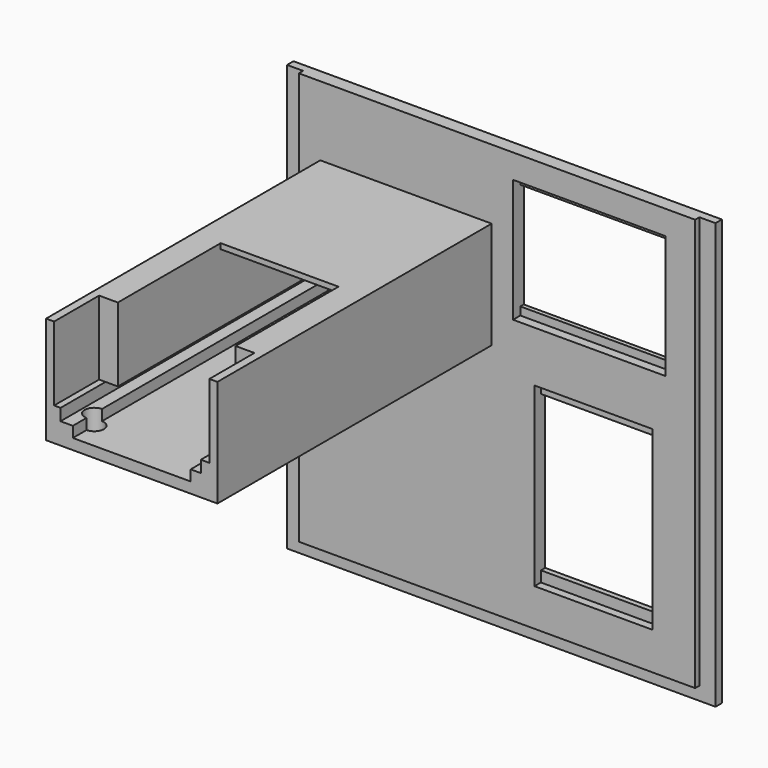
from build123d import *

# Parameters (mm, degrees)
BOX019_W          = 28.5
BOX019_H          = 10
BOX019_DEPTH      = 20
BOX020_W          = 22
BOX020_H          = 10
BOX020_DEPTH      = 33
BOX021_W          = 28.5
BOX021_H          = 10
BOX021_DEPTH      = 23
BOX024_W          = 26.2
BOX024_H          = 60
BOX024_DEPTH      = 2.2
BOX025_W          = 22
BOX025_H          = 60
BOX025_DEPTH      = 17
CYLINDER008_R     = 1.8
CYLINDER008_DEPTH = 30
CYLINDER009_R     = 1.8
CYLINDER009_DEPTH = 30
BOX026_W          = 29
BOX026_H          = 13
BOX026_DEPTH      = 15
BOX027_W          = 22
BOX027_H          = 25
BOX027_DEPTH      = 15
BOX022_W          = 12.6
BOX022_H          = 20
BOX022_DEPTH      = 12
BOX018_W          = 22
BOX018_H          = 10
BOX018_DEPTH      = 29
BOX014_W          = 80
BOX014_H          = 1.5
BOX014_DEPTH      = 79.5
BOX023_W          = 32
BOX023_H          = 64
BOX023_DEPTH      = 20
BOX015_W          = 74
BOX015_H          = 2
BOX015_DEPTH      = 77


with BuildPart() as pc:
    # Box019 → Box019 (new body)
    with BuildSketch(Plane(origin=(43, 0, 54), x_dir=(1, 0, 0), z_dir=(0, 0, 1))):
        with Locations((14.25, 5)):
            Rectangle(BOX019_W, BOX019_H)
    extrude(amount=BOX019_DEPTH)


with BuildPart() as obj1:
    # Box020 → Box020 (new body)
    with BuildSketch(Plane(origin=(47, -7.5, 10), x_dir=(1, 0, 0), z_dir=(0, 0, 1))):
        with Locations((11, 5)):
            Rectangle(BOX020_W, BOX020_H)
    extrude(amount=BOX020_DEPTH)


with BuildPart() as pc001:
    # Box021 → Box021 (new body)
    with BuildSketch(Plane(origin=(43, -7.3, 52.5), x_dir=(1, 0, 0), z_dir=(0, 0, 1))):
        with Locations((14.25, 5)):
            Rectangle(BOX021_W, BOX021_H)
    extrude(amount=BOX021_DEPTH)


with BuildPart() as obj2:
    # Box024 → Box024 (new body)
    with BuildSketch(Plane(origin=(35.9, -3.5, 51), x_dir=(-1, 0, 0), z_dir=(0, 0, 1))):
        with Locations((13.1, 30)):
            Rectangle(BOX024_W, BOX024_H)
    extrude(amount=BOX024_DEPTH)


with BuildPart() as obj3:
    # Box025 → Box025 (new body)
    with BuildSketch(Plane(origin=(34, -3.5, 49), x_dir=(-1, 0, 0), z_dir=(0, 0, 1))):
        with Locations((11, 30)):
            Rectangle(BOX025_W, BOX025_H)
    extrude(amount=BOX025_DEPTH)


with BuildPart() as cylinder008:
    # Cylinder008 → Cylinder008 (new body)
    with BuildSketch(Plane(origin=(34, -58, 38), x_dir=(1, 0, 0), z_dir=(0, 0, 1))):
        Circle(CYLINDER008_R)
    extrude(amount=CYLINDER008_DEPTH)


with BuildPart() as cylinder009:
    # Cylinder009 → Cylinder009 (new body)
    with BuildSketch(Plane(origin=(12, -58, 38), x_dir=(1, 0, 0), z_dir=(0, 0, 1))):
        Circle(CYLINDER009_R)
    extrude(amount=CYLINDER009_DEPTH)


with BuildPart() as obj4:
    # Box026 → Box026 (new body)
    with BuildSketch(Plane(origin=(8.5, -65.5, 53.2), x_dir=(1, 0, 0), z_dir=(0, 0, 1))):
        with Locations((14.5, 6.5)):
            Rectangle(BOX026_W, BOX026_H)
    extrude(amount=BOX026_DEPTH)


with BuildPart() as obj5:
    # Box027 → Box027 (new body)
    with BuildSketch(Plane(origin=(12, -53.5, 65.2), x_dir=(1, 0, 0), z_dir=(0, 0, 1))):
        with Locations((11, 12.5)):
            Rectangle(BOX027_W, BOX027_H)
    extrude(amount=BOX027_DEPTH)


with BuildPart() as obj6:
    # Box022 → Box022 (new body)
    with BuildSketch(Plane(origin=(16.7, -9, 53), x_dir=(1, 0, 0), z_dir=(0, 0, 1))):
        with Locations((6.3, 10)):
            Rectangle(BOX022_W, BOX022_H)
    extrude(amount=BOX022_DEPTH)

    # Fusion006: union obj2, obj3, Cylinder008, Cylinder009, obj4, obj5
    add(obj2.part)
    add(obj3.part)
    add(cylinder008.part)
    add(cylinder009.part)
    add(obj4.part)
    add(obj5.part)


with BuildPart() as fusion004:
    # Box018 → Box018 (new body)
    with BuildSketch(Plane(origin=(47, -6.5, 12), x_dir=(1, 0, 0), z_dir=(0, 0, 1))):
        with Locations((11, 5)):
            Rectangle(BOX018_W, BOX018_H)
    extrude(amount=BOX018_DEPTH)

    # Fusion004: union PC, obj1, PC001, obj6
    add(pc.part)
    add(obj1.part)
    add(pc001.part)
    add(obj6.part)


with BuildPart() as cube014:
    # Box014 → Box014 (new body)
    with BuildSketch(Plane(origin=(0, 2, 0.5), x_dir=(1, 0, 0), z_dir=(0, 0, 1))):
        with Locations((40, 0.75)):
            Rectangle(BOX014_W, BOX014_H)
    extrude(amount=BOX014_DEPTH)


with BuildPart() as obj7:
    # Box023 → Box023 (new body)
    with BuildSketch(Plane(origin=(39, 1, 47), x_dir=(-1, 0, 0), z_dir=(0, 0, 1))):
        with Locations((16, 32)):
            Rectangle(BOX023_W, BOX023_H)
    extrude(amount=BOX023_DEPTH)


with BuildPart() as obj8:
    # Box015 → Box015 (new body)
    with BuildSketch(Plane(origin=(3, 1, 3), x_dir=(1, 0, 0), z_dir=(0, 0, 1))):
        with Locations((37, 1)):
            Rectangle(BOX015_W, BOX015_H)
    extrude(amount=BOX015_DEPTH)

    # Fusion005: union Cube014, obj7
    add(cube014.part)
    add(obj7.part)

    # Cut002: cut Fusion004
    add(fusion004.part, mode=Mode.SUBTRACT)


solid = obj8.part
